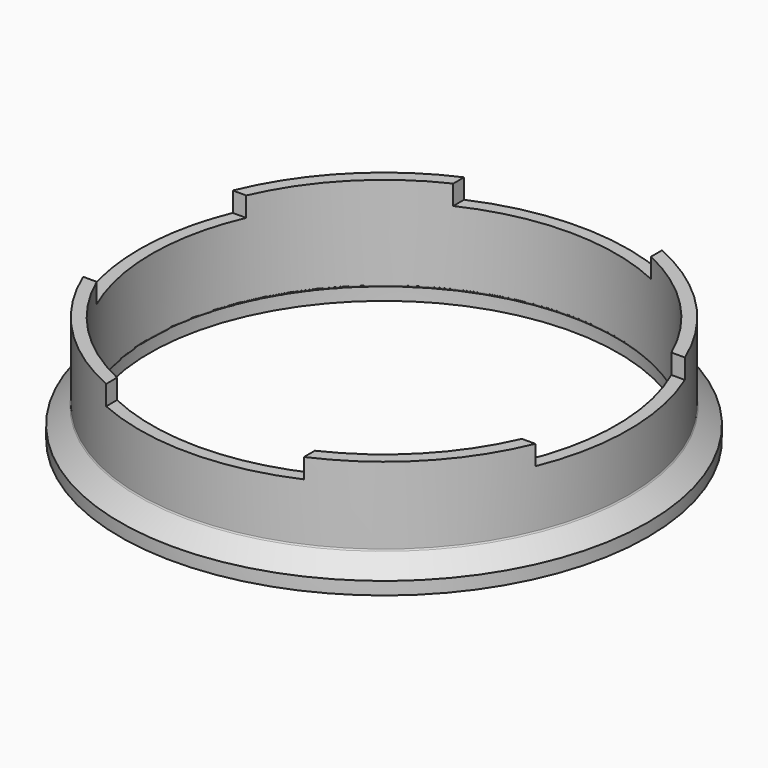
from build123d import *

# Parameters (mm, degrees)
F3_W        = 23.168018
F3_H        = 27.206479
F3_W_2      = 23.380567
F3_H_2      = 21.892714
F4_DEPTH    = 4
F1_FACE_R   = 30.911156
F1_FACE_R_2 = 27.45
F5_DEPTH    = 1.5


with BuildPart() as f1:
    # F0 (on Front) → F1 (revolve)
    with BuildSketch(Plane.XZ):
        with BuildLine():
            Line((-28.734368, 1.925376), (-30.911156, 0))
            Line((-30.911156, 0), (-27.45, 0))
            ThreePointArc((-27.45, 0), (-27.273223, 0.073223), (-27.2, 0.25))
            Line((-27.2, 0.25), (-27.2, 5))
            Line((-27.2, 5), (-27.2, 9.999887))
            Line((-27.2, 9.999887), (-27.2, 11.112636))
            Line((-27.2, 11.112636), (-28.65, 11.112636))
            Line((-28.65, 11.112636), (-28.65, 2.112636))
            ThreePointArc((-28.65, 2.112636), (-28.672066, 2.009942), (-28.734368, 1.925376))
        make_face()
    revolve(axis=Axis((0, 0, 10.43564), (0, 0, -1)))

    # F3 (on offset) → F4 (cut)
    with BuildSketch(Plane.XY.offset(8.8)):
        with Locations((0, 24.549596)):
            Rectangle(F3_W, F3_H)
        with Locations((-23.274293, 0)):
            Rectangle(F3_W_2, F3_H_2)
        with Locations((23.274293, 0)):
            Rectangle(F3_W_2, F3_H_2)
        with Locations((0, -24.549596)):
            Rectangle(F3_W, F3_H)
    extrude(amount=F4_DEPTH, mode=Mode.SUBTRACT)

    # F1_face (on face) → F5 (join)
    with BuildSketch(Plane(origin=(0, 0, 0), x_dir=(1, 0, 0), z_dir=(0, 0, -1))):
        Circle(F1_FACE_R)
        Circle(F1_FACE_R_2, mode=Mode.SUBTRACT)
    extrude(amount=F5_DEPTH)


solid = f1.part
